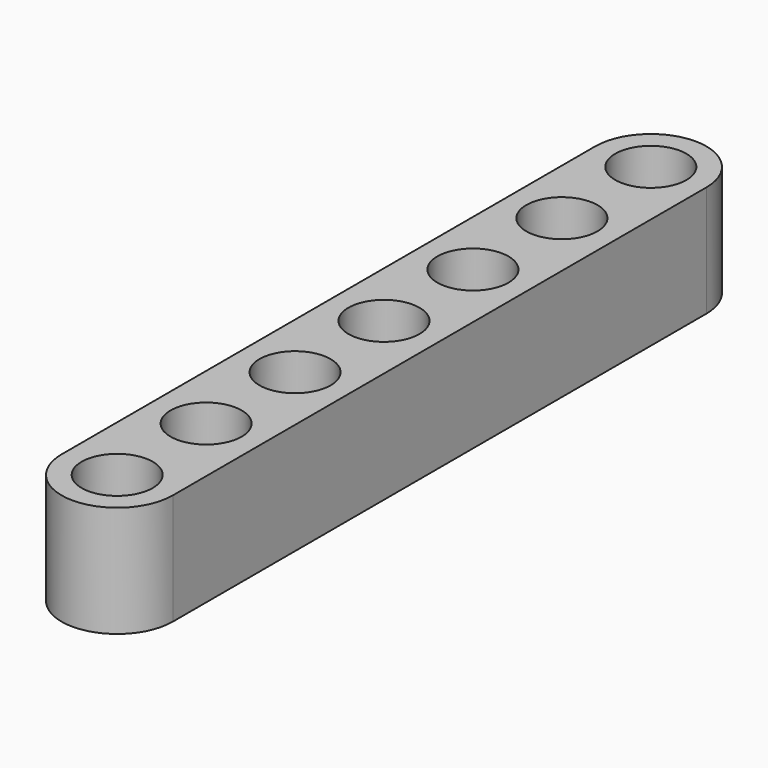
from build123d import *

# Parameters (mm, degrees)
F0_R     = 2.54
F1_DEPTH = 7.9375


with BuildPart() as f1:
    # F0 (on Top) → F1 (new body)
    with BuildSketch(Plane.XY):
        with BuildLine():
            ThreePointArc((7.9375, 0), (3.96875, 3.96875), (0, 0))
            Line((0, 0), (0, -47.625))
            ThreePointArc((0, -47.625), (3.96875, -51.59375), (7.9375, -47.625))
            Line((7.9375, -47.625), (7.9375, 0))
        make_face()
        with Locations((3.96875, -47.625)):
            Circle(F0_R, mode=Mode.SUBTRACT)
        with Locations((3.96875, -39.6875)):
            Circle(F0_R, mode=Mode.SUBTRACT)
        with Locations((3.96875, -31.75)):
            Circle(F0_R, mode=Mode.SUBTRACT)
        with Locations((3.96875, -23.8125)):
            Circle(F0_R, mode=Mode.SUBTRACT)
        with Locations((3.96875, -15.875)):
            Circle(F0_R, mode=Mode.SUBTRACT)
        with Locations((3.96875, -7.9375)):
            Circle(F0_R, mode=Mode.SUBTRACT)
        with Locations((3.96875, 0)):
            Circle(F0_R, mode=Mode.SUBTRACT)
    extrude(amount=F1_DEPTH)


solid = f1.part
